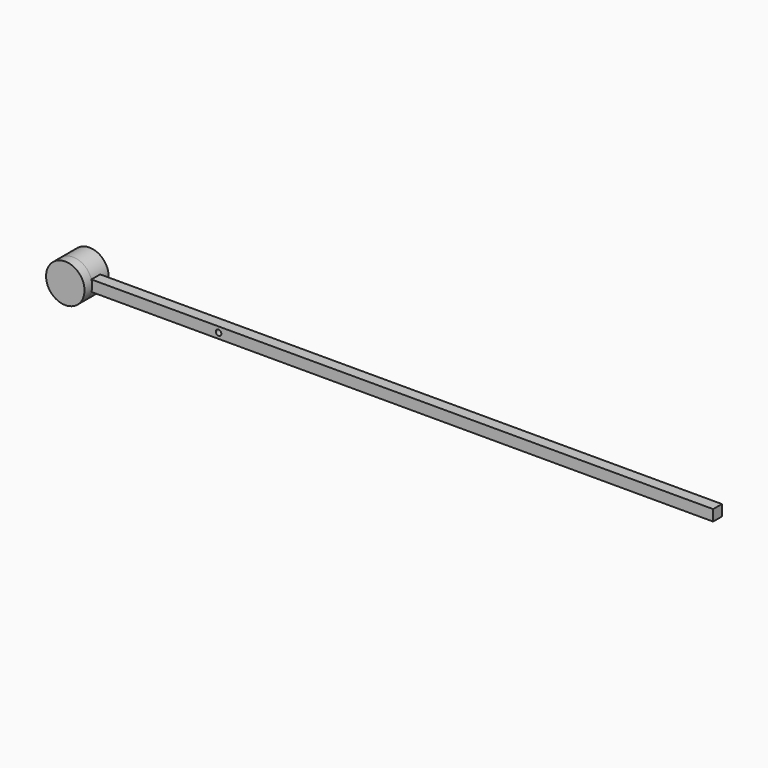
from build123d import *

# Parameters (mm, degrees)
F1_DEPTH      = 10
F3_DEPTH      = 8.75
F3_DEPTH_BACK = 18.75


with BuildPart() as f1:
    # F0 (on Front) → F1 (new body)
    with BuildSketch(Plane.XZ):
        with BuildLine():
            Line((-150, -5), (300, -5))
            Line((300, -5), (300, 5))
            Line((300, 5), (-150, 5))
            ThreePointArc((-150, 5), (-146.464466, 3.535534), (-145, 0))
            ThreePointArc((-145, 0), (-146.464466, -3.535534), (-150, -5))
        make_face()
        with BuildLine():
            Line((-300, -5), (-150, -5))
            ThreePointArc((-150, -5), (-153.535534, -3.535534), (-155, 0))
            Line((-155, 0), (-300, 0))
            Line((-300, 0), (-300, -5))
        make_face()
        with BuildLine():
            Line((-300, 0), (-155, 0))
            ThreePointArc((-155, 0), (-153.535534, 3.535534), (-150, 5))
            Line((-150, 5), (-300, 5))
            Line((-300, 5), (-300, 0))
        make_face()
        with BuildLine():
            ThreePointArc((-155, 0), (-153.535534, -3.535534), (-150, -5))
            ThreePointArc((-150, -5), (-146.464466, -3.535534), (-145, 0))
            ThreePointArc((-145, 0), (-146.464466, 3.535534), (-150, 5))
            ThreePointArc((-150, 5), (-153.535534, 3.535534), (-155, 0))
        make_face()
        with BuildLine():
            ThreePointArc((-147.5, 0), (-150, -2.5), (-152.5, 0))
            ThreePointArc((-152.5, 0), (-150, 2.5), (-147.5, 0))
        make_face(mode=Mode.SUBTRACT)
    extrude(amount=F1_DEPTH)

    # F2 (on face) → F3 (join, two sides)
    with BuildSketch(Plane.XZ.offset(10)) as f3_sk:
        with BuildLine():
            ThreePointArc((-300, 0), (-282.5, -17.5), (-265, 0))
            ThreePointArc((-265, 0), (-282.5, 17.5), (-300, 0))
        make_face()
    extrude(amount=F3_DEPTH)
    extrude(f3_sk.sketch, amount=-F3_DEPTH_BACK)


solid = f1.part
